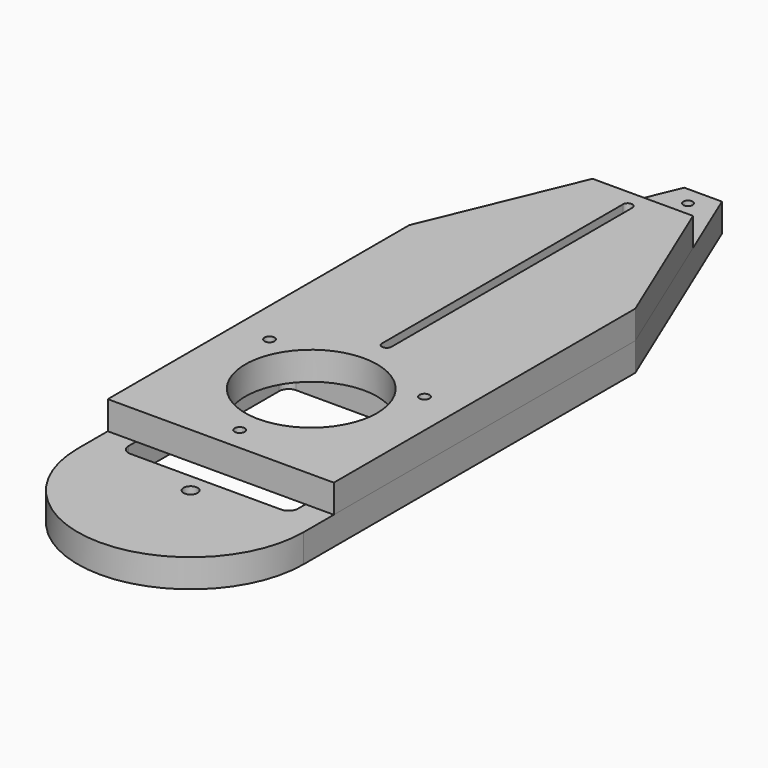
from build123d import *

# Parameters (mm, degrees)
F0_R           = 44.45
F1_DEPTH       = 19.05
F2_D           = 6.7564
F2_CSINK_D     = 13.4874
F2_CSINK_ANGLE = 82
F0_R_2         = 4.7625
F0_R_3         = 3.175
F3_DEPTH       = 19.05
F5_D           = 6.5278
F5_CSINK_D     = 13.4874
F5_CSINK_ANGLE = 82


with BuildPart() as f1:
    # F0 (on Top) → F1 (new body)
    with BuildSketch(Plane.XY):
        with BuildLine():
            Line((-44.8430006357, 63.4270252069), (-112.5764180766, 63.4270252069))
            Line((-112.5764180766, 63.4270252069), (-154.9097093561, -38.1729747931))
            Line((-154.9097093561, -38.1729747931), (-154.9097093561, -292.1729747931))
            Line((-154.9097093561, -292.1729747931), (-135.8597093561, -292.1729747931))
            Line((-135.8597093561, -292.1729747931), (-135.8597093561, -171.5229747931))
            ThreePointArc((-135.8597093561, -171.5229747931), (-133.9998374167, -167.0328467326), (-129.5097093561, -165.1729747931))
            Line((-129.5097093561, -165.1729747931), (-78.7097093561, -165.1729747931))
            Line((-78.7097093561, -165.1729747931), (-27.9097093561, -165.1729747931))
            ThreePointArc((-27.9097093561, -165.1729747931), (-23.4195812956, -167.0328467326), (-21.5597093561, -171.5229747931))
            Line((-21.5597093561, -171.5229747931), (-21.5597093561, -292.1729747931))
            Line((-21.5597093561, -292.1729747931), (-2.5097093561, -292.1729747931))
            Line((-2.5097093561, -292.1729747931), (-2.5097093561, -38.1729747931))
            Line((-2.5097093561, -38.1729747931), (-44.8430006357, 63.4270252069))
        make_face()
        with BuildLine():
            ThreePointArc((-81.8859197836, 50.7270252069), (-78.771751834, 53.9026674871), (-75.5359212621, 50.8510865164))
            Line((-75.5359212621, 50.8510865164), (-75.5334989286, -152.3489134691))
            ThreePointArc((-75.5334989286, -152.3489134691), (-78.6476668783, -155.5245557493), (-81.8834974502, -152.4729747787))
            Line((-81.8834974502, -152.4729747787), (-81.8859197836, 50.7270252069))
        make_face(mode=Mode.SUBTRACT)
        with BuildLine():
            Line((-135.8597093561, -171.5229747931), (-135.8597093561, -292.1729747931))
            Line((-135.8597093561, -292.1729747931), (-21.5597093561, -292.1729747931))
            Line((-21.5597093561, -292.1729747931), (-21.5597093561, -171.5229747931))
            ThreePointArc((-21.5597093561, -171.5229747931), (-23.4195812956, -167.0328467326), (-27.9097093561, -165.1729747931))
            Line((-27.9097093561, -165.1729747931), (-78.7097093561, -165.1729747931))
            Line((-78.7097093561, -165.1729747931), (-129.5097093561, -165.1729747931))
            ThreePointArc((-129.5097093561, -165.1729747931), (-133.9998374167, -167.0328467326), (-135.8597093561, -171.5229747931))
        make_face()
        with Locations((-78.7097093561, -215.9729747931)):
            Circle(F0_R, mode=Mode.SUBTRACT)
    extrude(amount=F1_DEPTH)

    # F2 (through all)
    with Locations(Plane(origin=(0, 0, 0), x_dir=(1, 0, 0), z_dir=(0, 0, -1))):
        with Locations((-26.4667268728, 185.8104747931), (-130.9526918394, 185.8104747931), (-78.7097093561, 276.2979747931)):
            CounterSinkHole(F2_D / 2, F2_CSINK_D / 2, counter_sink_angle=F2_CSINK_ANGLE)


with BuildPart() as f3:
    # F0 (on Top) → F3 (new body)
    with BuildSketch(Plane.XY):
        with BuildLine():
            Line((-135.8597093561, -292.1729747931), (-154.9097093561, -292.1729747931))
            Line((-154.9097093561, -292.1729747931), (-154.9097093561, -317.5729747931))
            ThreePointArc((-154.9097093561, -317.5729747931), (-78.7097093561, -393.7729747931), (-2.5097093561, -317.5729747931))
            Line((-2.5097093561, -317.5729747931), (-2.5097093561, -292.1729747931))
            Line((-2.5097093561, -292.1729747931), (-21.5597093561, -292.1729747931))
            Line((-21.5597093561, -292.1729747931), (-21.5597093561, -298.5229747931))
            ThreePointArc((-21.5597093561, -298.5229747931), (-23.4195812956, -303.0131028536), (-27.9097093561, -304.8729747931))
            Line((-27.9097093561, -304.8729747931), (-78.7097093561, -304.8729747931))
            Line((-78.7097093561, -304.8729747931), (-129.5097093561, -304.8729747931))
            ThreePointArc((-129.5097093561, -304.8729747931), (-133.9998374167, -303.0131028536), (-135.8597093561, -298.5229747931))
            Line((-135.8597093561, -298.5229747931), (-135.8597093561, -292.1729747931))
        make_face()
        with Locations((-78.7097093561, -317.5729747931)):
            Circle(F0_R_2, mode=Mode.SUBTRACT)
        with BuildLine():
            Line((-44.8430006357, 63.4270252069), (-112.5764180766, 63.4270252069))
            Line((-112.5764180766, 63.4270252069), (-154.9097093561, -38.1729747931))
            Line((-154.9097093561, -38.1729747931), (-154.9097093561, -292.1729747931))
            Line((-154.9097093561, -292.1729747931), (-135.8597093561, -292.1729747931))
            Line((-135.8597093561, -292.1729747931), (-135.8597093561, -171.5229747931))
            ThreePointArc((-135.8597093561, -171.5229747931), (-133.9998374167, -167.0328467326), (-129.5097093561, -165.1729747931))
            Line((-129.5097093561, -165.1729747931), (-78.7097093561, -165.1729747931))
            Line((-78.7097093561, -165.1729747931), (-27.9097093561, -165.1729747931))
            ThreePointArc((-27.9097093561, -165.1729747931), (-23.4195812956, -167.0328467326), (-21.5597093561, -171.5229747931))
            Line((-21.5597093561, -171.5229747931), (-21.5597093561, -292.1729747931))
            Line((-21.5597093561, -292.1729747931), (-2.5097093561, -292.1729747931))
            Line((-2.5097093561, -292.1729747931), (-2.5097093561, -38.1729747931))
            Line((-2.5097093561, -38.1729747931), (-44.8430006357, 63.4270252069))
        make_face()
        with BuildLine():
            ThreePointArc((-81.8859197836, 50.7270252069), (-78.771751834, 53.9026674871), (-75.5359212621, 50.8510865164))
            Line((-75.5359212621, 50.8510865164), (-75.5334989286, -152.3489134691))
            ThreePointArc((-75.5334989286, -152.3489134691), (-78.6476668783, -155.5245557493), (-81.8834974502, -152.4729747787))
            Line((-81.8834974502, -152.4729747787), (-81.8859197836, 50.7270252069))
        make_face(mode=Mode.SUBTRACT)
        Polygon((-91.4097093552, 114.2271766027), (-112.5764180766, 63.4270252069), (-44.8430006357, 63.4270252069), (-66.009709357, 114.2271766027), (-78.7097093561, 114.2270252069), align=None)
        with Locations((-78.7097093561, 101.527025206)):
            Circle(F0_R_3, mode=Mode.SUBTRACT)
        with BuildLine():
            Line((-75.5334989286, -152.3489134691), (-75.5359212621, 50.8510865164))
            ThreePointArc((-75.5359212621, 50.8510865164), (-78.771751834, 53.9026674871), (-81.8859197836, 50.7270252069))
            Line((-81.8859197836, 50.7270252069), (-81.8834974502, -152.4729747787))
            ThreePointArc((-81.8834974502, -152.4729747787), (-78.6476668783, -155.5245557493), (-75.5334989286, -152.3489134691))
        make_face()
        with BuildLine():
            Line((-75.5334989286, -152.3489134691), (-75.5359212621, 50.8510865164))
            ThreePointArc((-75.5359212621, 50.8510865164), (-78.771751834, 53.9026674871), (-81.8859197836, 50.7270252069))
            Line((-81.8859197836, 50.7270252069), (-81.8834974502, -152.4729747787))
            ThreePointArc((-81.8834974502, -152.4729747787), (-78.6476668783, -155.5245557493), (-75.5334989286, -152.3489134691))
        make_face()
    extrude(amount=-F3_DEPTH)

    # F5 (through all)
    with Locations(Plane(origin=(0, 0, -19.05), x_dir=(1, 0, 0), z_dir=(0, 0, -1))):
        with Locations((-78.7097093561, 152.4729747931), (-78.7097093561, 50.8729747931)):
            CounterSinkHole(F5_D / 2, F5_CSINK_D / 2, counter_sink_angle=F5_CSINK_ANGLE)


solid = Compound([f1.part, f3.part])
